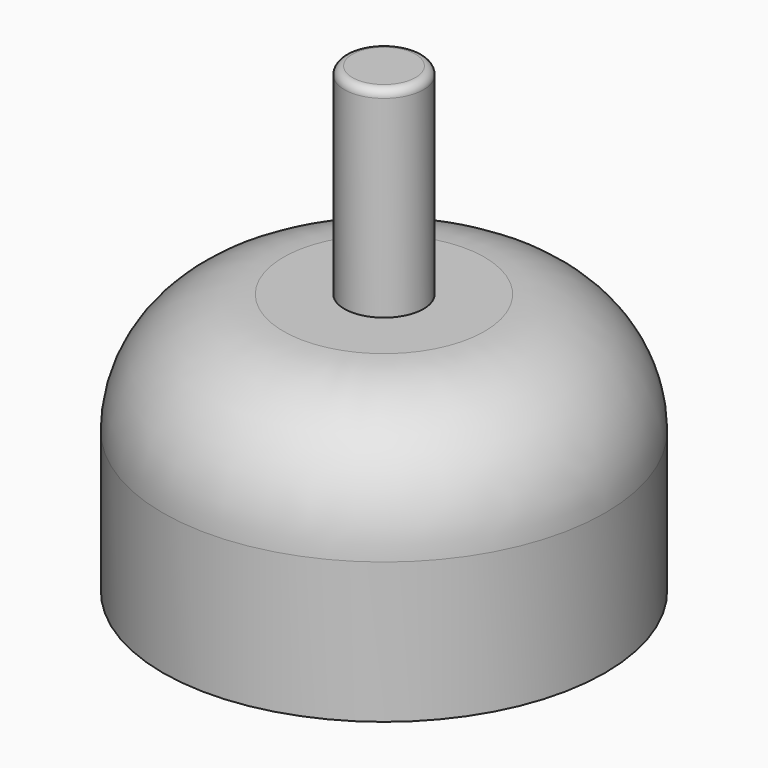
from build123d import *

# Parameters (mm, degrees)
F0_R     = 13.97
F1_DEPTH = 16.51
F2_R     = 7.62
F3_R     = 1.27
F4_DEPTH = 2.54
F5_R     = 1.905
F6_DEPTH = 2.54
F7_R     = 2.5019
F8_DEPTH = 12.7
F9_R     = 0.508


with BuildPart() as f1:
    # F0 (on Top) → F1 (new body)
    with BuildSketch(Plane.XY):
        Circle(F0_R)
    extrude(amount=F1_DEPTH)

    # F2
    f2_edges = [f1.edges().sort_by_distance(p)[0] for p in [
        (-13.97, 0, 16.51),
    ]]
    fillet(f2_edges, radius=F2_R)

    # F3 (on face) → F4 (join)
    with BuildSketch(Plane(origin=(0, 0, 0), x_dir=(1, 0, 0), z_dir=(0, 0, -1))):
        Circle(F3_R)
    extrude(amount=F4_DEPTH)

    # F5 (on face) → F6 (cut)
    with BuildSketch(Plane(origin=(0, 0, 0), x_dir=(1, 0, 0), z_dir=(0, 0, -1))):
        with Locations((-9.5885, 0)):
            Circle(F5_R)
        with Locations((0, -9.5885)):
            Circle(F5_R)
        with Locations((9.5885, 0)):
            Circle(F5_R)
        with Locations((0, 9.5885)):
            Circle(F5_R)
    extrude(amount=-F6_DEPTH, mode=Mode.SUBTRACT)

    # F7 (on face) → F8 (join)
    with BuildSketch(Plane.XY.offset(16.51)):
        Circle(F7_R)
    extrude(amount=F8_DEPTH)

    # F9
    f9_edges = [f1.edges().sort_by_distance(p)[0] for p in [
        (-2.5019, 0, 29.21),
    ]]
    fillet(f9_edges, radius=F9_R)


solid = f1.part
